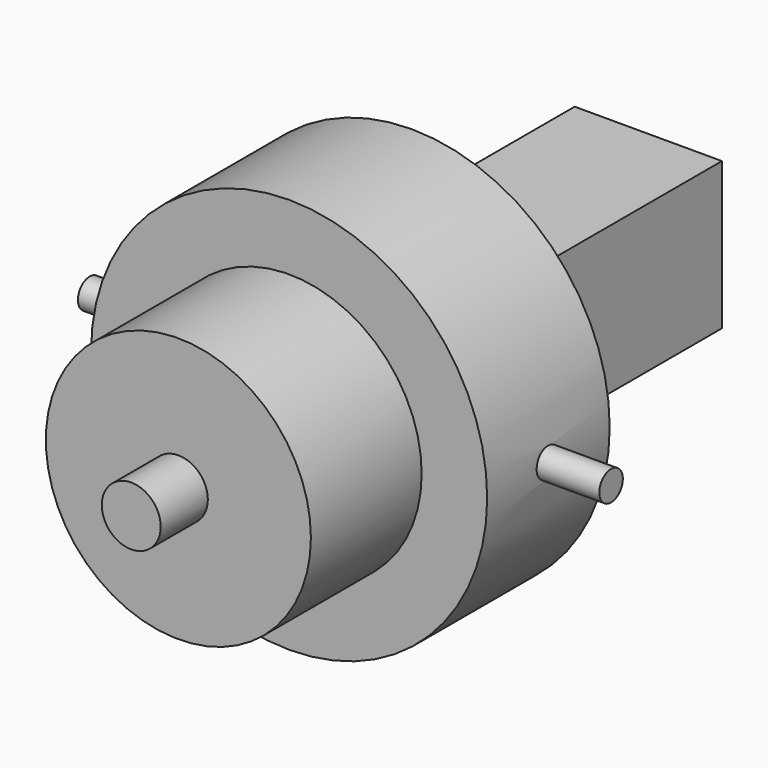
from build123d import *

# Parameters (mm, degrees)
F0_W     = 127
F0_H     = 127
F1_DEPTH = 321.1322
F2_R     = 170.815
F3_DEPTH = 66.04
F4_R     = 114.3
F5_DEPTH = 119.38
F6_R     = 25.4
F7_DEPTH = 50.8
F8_R     = 12.7
F9_DEPTH = 224.79


with BuildPart() as f1:
    # F0 (on Front) → F1 (new body)
    with BuildSketch(Plane.XZ):
        Rectangle(F0_W, F0_H)
    extrude(amount=-F1_DEPTH)

    # F2 (on Front) → F3 (join, symmetric)
    with BuildSketch(Plane.XZ):
        Circle(F2_R)
    extrude(amount=F3_DEPTH, both=True)

    # F4 (on face) → F5 (join)
    with BuildSketch(Plane.XZ.offset(66.04)):
        Circle(F4_R)
    extrude(amount=F5_DEPTH)

    # F6 (on face) → F7 (join)
    with BuildSketch(Plane.XZ.offset(185.42)):
        Circle(F6_R)
    extrude(amount=F7_DEPTH)

    # F8 (on Right) → F9 (join, symmetric)
    with BuildSketch(Plane.YZ):
        Circle(F8_R)
    extrude(amount=F9_DEPTH, both=True)


solid = f1.part
